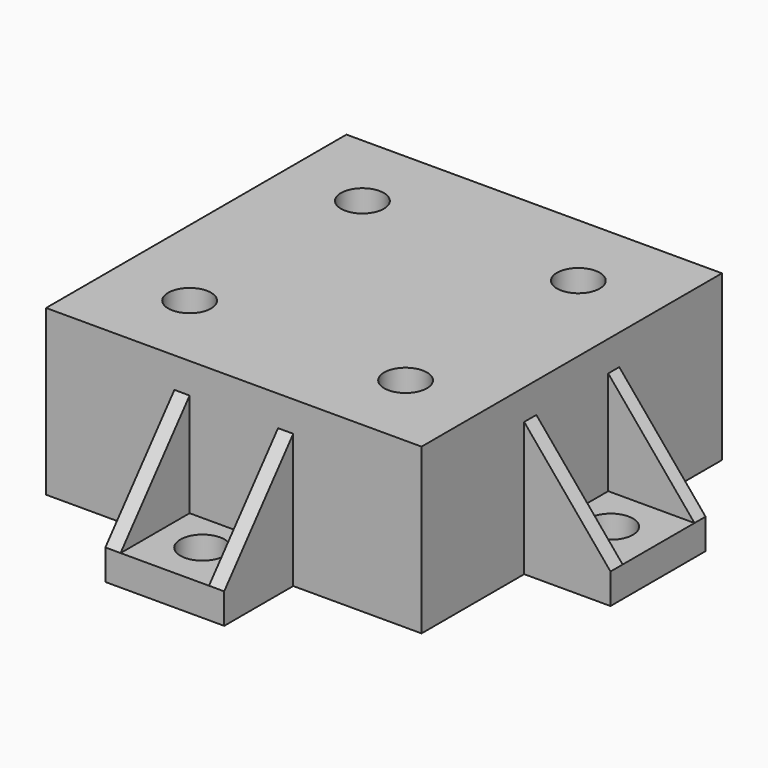
from build123d import *

# Parameters (mm, degrees)
F0_R      = 1.6
F1_DEPTH  = 2.2
F2_W      = 1.1
F2_H      = 6.2444173613
F2_W_2    = 6.2444173613
F2_H_2    = 1
F2_H_3    = 1.1
F3_DEPTH  = 7.5
F5_DEPTH  = 24.1311635683
F7_DEPTH  = 24.1311635683
F9_DEPTH  = 24.1311635683
F11_DEPTH = 24.1311635683
F12_R     = 1.55
F13_DEPTH = 2.2


with BuildPart() as f1:
    # F0 (on Top) → F1 (new body)
    with BuildSketch(Plane.XY):
        with BuildLine():
            ThreePointArc((-4.3, 13.585746207), (0, 14.25), (4.3, 13.585746207))
            Line((4.3, 13.585746207), (4.3, 19.8301635683))
            Line((4.3, 19.8301635683), (0, 19.8301635683))
            Line((0, 19.8301635683), (-4.3, 19.8301635683))
            Line((-4.3, 19.8301635683), (-4.3, 13.585746207))
        make_face()
        with Locations((0, 16.4150817841)):
            Circle(F0_R, mode=Mode.SUBTRACT)
        with BuildLine():
            Line((-7.4573291436, 12.1429297142), (-4.642117831, 12.1429297142))
            ThreePointArc((-4.642117831, 12.1429297142), (-4.4714979846, 12.2067893311), (-4.3, 12.2682517092))
            Line((-4.3, 12.2682517092), (-4.3, 13.585746207))
            ThreePointArc((-4.3, 13.585746207), (-5.9227634602, 12.9608399803), (-7.4573291436, 12.1429297142))
        make_face()
        with BuildLine():
            ThreePointArc((-4.3, 12.2682517092), (0, 13), (4.3, 12.2682517092))
            Line((4.3, 12.2682517092), (4.3, 13.585746207))
            ThreePointArc((4.3, 13.585746207), (0, 14.25), (-4.3, 13.585746207))
            Line((-4.3, 13.585746207), (-4.3, 12.2682517092))
        make_face()
        with BuildLine():
            ThreePointArc((4.3, 12.2682517092), (4.4714979846, 12.2067893311), (4.642117831, 12.1429297142))
            Line((4.642117831, 12.1429297142), (7.4573291436, 12.1429297142))
            ThreePointArc((7.4573291436, 12.1429297142), (5.9227634602, 12.9608399803), (4.3, 13.585746207))
            Line((4.3, 13.585746207), (4.3, 12.2682517092))
        make_face()
        with BuildLine():
            ThreePointArc((12.2682517092, 4.3), (12.8157573366, 2.1809089596), (13, 0))
            ThreePointArc((13, 0), (12.8157573366, -2.1809089596), (12.2682517092, -4.3))
            Line((12.2682517092, -4.3), (13.585746207, -4.3))
            ThreePointArc((13.585746207, -4.3), (14.0829574921, -2.1755018445), (14.25, 0))
            ThreePointArc((14.25, 0), (14.0829574921, 2.1755018445), (13.585746207, 4.3))
            Line((13.585746207, 4.3), (12.2682517092, 4.3))
        make_face()
        with BuildLine():
            Line((19.8301635683, 4.3), (13.585746207, 4.3))
            ThreePointArc((13.585746207, 4.3), (14.0829574921, 2.1755018445), (14.25, 0))
            ThreePointArc((14.25, 0), (14.0829574921, -2.1755018445), (13.585746207, -4.3))
            Line((13.585746207, -4.3), (19.8301635683, -4.3))
            Line((19.8301635683, -4.3), (19.8301635683, 0))
            Line((19.8301635683, 0), (19.8301635683, 4.3))
        make_face()
        with Locations((16.4150817841, 0)):
            Circle(F0_R, mode=Mode.SUBTRACT)
        with BuildLine():
            Line((13.585746207, -4.3), (12.2682517092, -4.3))
            ThreePointArc((12.2682517092, -4.3), (12.2067893311, -4.4714979846), (12.1429297142, -4.642117831))
            Line((12.1429297142, -4.642117831), (12.1429297142, -7.4573291436))
            ThreePointArc((12.1429297142, -7.4573291436), (12.9608399803, -5.9227634602), (13.585746207, -4.3))
        make_face()
        with BuildLine():
            Line((4.3, -13.585746207), (4.3, -12.2682517092))
            ThreePointArc((4.3, -12.2682517092), (0, -13), (-4.3, -12.2682517092))
            Line((-4.3, -12.2682517092), (-4.3, -13.585746207))
            ThreePointArc((-4.3, -13.585746207), (0, -14.25), (4.3, -13.585746207))
        make_face()
        with BuildLine():
            ThreePointArc((-4.3, -12.2682517092), (-4.4714979846, -12.2067893311), (-4.642117831, -12.1429297142))
            Line((-4.642117831, -12.1429297142), (-7.4573291436, -12.1429297142))
            ThreePointArc((-7.4573291436, -12.1429297142), (-5.9227634602, -12.9608399803), (-4.3, -13.585746207))
            Line((-4.3, -13.585746207), (-4.3, -12.2682517092))
        make_face()
        with BuildLine():
            ThreePointArc((-12.2682517092, -4.3), (-13, 0), (-12.2682517092, 4.3))
            Line((-12.2682517092, 4.3), (-13.585746207, 4.3))
            ThreePointArc((-13.585746207, 4.3), (-14.25, 0), (-13.585746207, -4.3))
            Line((-13.585746207, -4.3), (-12.2682517092, -4.3))
        make_face()
        with BuildLine():
            ThreePointArc((-13.585746207, -4.3), (-14.25, 0), (-13.585746207, 4.3))
            Line((-13.585746207, 4.3), (-19.8301635683, 4.3))
            Line((-19.8301635683, 4.3), (-19.8301635683, 0))
            Line((-19.8301635683, 0), (-19.8301635683, -4.3))
            Line((-19.8301635683, -4.3), (-13.585746207, -4.3))
        make_face()
        with Locations((-16.4150817841, 0)):
            Circle(F0_R, mode=Mode.SUBTRACT)
        with BuildLine():
            Line((4.3, -19.8301635683), (4.3, -13.585746207))
            ThreePointArc((4.3, -13.585746207), (0, -14.25), (-4.3, -13.585746207))
            Line((-4.3, -13.585746207), (-4.3, -19.8301635683))
            Line((-4.3, -19.8301635683), (0, -19.8301635683))
            Line((0, -19.8301635683), (4.3, -19.8301635683))
        make_face()
        with Locations((0, -16.4150817841)):
            Circle(F0_R, mode=Mode.SUBTRACT)
        with BuildLine():
            ThreePointArc((-12.1429297142, 7.4573291436), (-10.0762716319, 10.0762716319), (-7.4573291436, 12.1429297142))
            Line((-7.4573291436, 12.1429297142), (-12.1429297142, 12.1429297142))
            Line((-12.1429297142, 12.1429297142), (-12.1429297142, 7.4573291436))
        make_face()
        with BuildLine():
            ThreePointArc((-4.3, -13.585746207), (-5.9227634602, -12.9608399803), (-7.4573291436, -12.1429297142))
            Line((-7.4573291436, -12.1429297142), (-12.1429297142, -12.1429297142))
            Line((-12.1429297142, -12.1429297142), (-12.1429297142, -7.4573291436))
            ThreePointArc((-12.1429297142, -7.4573291436), (-12.9608399803, -5.9227634602), (-13.585746207, -4.3))
            Line((-13.585746207, -4.3), (-13.585746207, -13.585746207))
            Line((-13.585746207, -13.585746207), (-4.3, -13.585746207))
        make_face()
        with BuildLine():
            Line((-12.1429297142, -12.1429297142), (-7.4573291436, -12.1429297142))
            ThreePointArc((-7.4573291436, -12.1429297142), (-10.0762716319, -10.0762716319), (-12.1429297142, -7.4573291436))
            Line((-12.1429297142, -7.4573291436), (-12.1429297142, -12.1429297142))
        make_face()
        with BuildLine():
            Line((-12.1429297142, -7.4573291436), (-12.1429297142, -4.642117831))
            ThreePointArc((-12.1429297142, -4.642117831), (-12.2067893311, -4.4714979846), (-12.2682517092, -4.3))
            Line((-12.2682517092, -4.3), (-13.585746207, -4.3))
            ThreePointArc((-13.585746207, -4.3), (-12.9608399803, -5.9227634602), (-12.1429297142, -7.4573291436))
        make_face()
        with BuildLine():
            Line((-12.1429297142, 12.1429297142), (-7.4573291436, 12.1429297142))
            ThreePointArc((-7.4573291436, 12.1429297142), (-5.9227634602, 12.9608399803), (-4.3, 13.585746207))
            Line((-4.3, 13.585746207), (-13.585746207, 13.585746207))
            Line((-13.585746207, 13.585746207), (-13.585746207, 4.3))
            ThreePointArc((-13.585746207, 4.3), (-12.9608399803, 5.9227634602), (-12.1429297142, 7.4573291436))
            Line((-12.1429297142, 7.4573291436), (-12.1429297142, 12.1429297142))
        make_face()
        with BuildLine():
            ThreePointArc((12.1429297142, 7.4573291436), (12.9608399803, 5.9227634602), (13.585746207, 4.3))
            Line((13.585746207, 4.3), (13.585746207, 13.585746207))
            Line((13.585746207, 13.585746207), (4.3, 13.585746207))
            ThreePointArc((4.3, 13.585746207), (5.9227634602, 12.9608399803), (7.4573291436, 12.1429297142))
            Line((7.4573291436, 12.1429297142), (12.1429297142, 12.1429297142))
            Line((12.1429297142, 12.1429297142), (12.1429297142, 7.4573291436))
        make_face()
        with BuildLine():
            ThreePointArc((7.4573291436, 12.1429297142), (10.0762716319, 10.0762716319), (12.1429297142, 7.4573291436))
            Line((12.1429297142, 7.4573291436), (12.1429297142, 12.1429297142))
            Line((12.1429297142, 12.1429297142), (7.4573291436, 12.1429297142))
        make_face()
        with BuildLine():
            ThreePointArc((4.642117831, 12.1429297142), (9.1923881554, 9.1923881554), (12.1429297142, 4.642117831))
            Line((12.1429297142, 4.642117831), (12.1429297142, 7.4573291436))
            ThreePointArc((12.1429297142, 7.4573291436), (10.0762716319, 10.0762716319), (7.4573291436, 12.1429297142))
            Line((7.4573291436, 12.1429297142), (4.642117831, 12.1429297142))
        make_face()
        with BuildLine():
            ThreePointArc((12.1429297142, 4.642117831), (12.2067893311, 4.4714979846), (12.2682517092, 4.3))
            Line((12.2682517092, 4.3), (13.585746207, 4.3))
            ThreePointArc((13.585746207, 4.3), (12.9608399803, 5.9227634602), (12.1429297142, 7.4573291436))
            Line((12.1429297142, 7.4573291436), (12.1429297142, 4.642117831))
        make_face()
        with BuildLine():
            ThreePointArc((-12.1429297142, 4.642117831), (-9.1923881554, 9.1923881554), (-4.642117831, 12.1429297142))
            Line((-4.642117831, 12.1429297142), (-7.4573291436, 12.1429297142))
            ThreePointArc((-7.4573291436, 12.1429297142), (-10.0762716319, 10.0762716319), (-12.1429297142, 7.4573291436))
            Line((-12.1429297142, 7.4573291436), (-12.1429297142, 4.642117831))
        make_face()
        with BuildLine():
            ThreePointArc((-12.2682517092, 4.3), (-12.2067893311, 4.4714979846), (-12.1429297142, 4.642117831))
            Line((-12.1429297142, 4.642117831), (-12.1429297142, 7.4573291436))
            ThreePointArc((-12.1429297142, 7.4573291436), (-12.9608399803, 5.9227634602), (-13.585746207, 4.3))
            Line((-13.585746207, 4.3), (-12.2682517092, 4.3))
        make_face()
        with BuildLine():
            Line((-7.4573291436, -12.1429297142), (-4.642117831, -12.1429297142))
            ThreePointArc((-4.642117831, -12.1429297142), (-9.1923881554, -9.1923881554), (-12.1429297142, -4.642117831))
            Line((-12.1429297142, -4.642117831), (-12.1429297142, -7.4573291436))
            ThreePointArc((-12.1429297142, -7.4573291436), (-10.0762716319, -10.0762716319), (-7.4573291436, -12.1429297142))
        make_face()
        with BuildLine():
            Line((12.1429297142, -7.4573291436), (12.1429297142, -4.642117831))
            ThreePointArc((12.1429297142, -4.642117831), (9.1923881554, -9.1923881554), (4.642117831, -12.1429297142))
            Line((4.642117831, -12.1429297142), (7.4573291436, -12.1429297142))
            ThreePointArc((7.4573291436, -12.1429297142), (10.0762716319, -10.0762716319), (12.1429297142, -7.4573291436))
        make_face()
        with BuildLine():
            Line((12.1429297142, -12.1429297142), (12.1429297142, -7.4573291436))
            ThreePointArc((12.1429297142, -7.4573291436), (10.0762716319, -10.0762716319), (7.4573291436, -12.1429297142))
            Line((7.4573291436, -12.1429297142), (12.1429297142, -12.1429297142))
        make_face()
        with BuildLine():
            Line((13.585746207, -13.585746207), (13.585746207, -4.3))
            ThreePointArc((13.585746207, -4.3), (12.9608399803, -5.9227634602), (12.1429297142, -7.4573291436))
            Line((12.1429297142, -7.4573291436), (12.1429297142, -12.1429297142))
            Line((12.1429297142, -12.1429297142), (7.4573291436, -12.1429297142))
            ThreePointArc((7.4573291436, -12.1429297142), (5.9227634602, -12.9608399803), (4.3, -13.585746207))
            Line((4.3, -13.585746207), (13.585746207, -13.585746207))
        make_face()
        with BuildLine():
            Line((7.4573291436, -12.1429297142), (4.642117831, -12.1429297142))
            ThreePointArc((4.642117831, -12.1429297142), (4.4714979846, -12.2067893311), (4.3, -12.2682517092))
            Line((4.3, -12.2682517092), (4.3, -13.585746207))
            ThreePointArc((4.3, -13.585746207), (5.9227634602, -12.9608399803), (7.4573291436, -12.1429297142))
        make_face()
    extrude(amount=F1_DEPTH)

    # F2 (on face) → F3 (join)
    with BuildSketch(Plane.XY.offset(2.2)):
        with Locations((3.75, 16.7079548876)):
            Rectangle(F2_W, F2_H)
        Polygon((-3.2, 13.585746207), (-4.3, 13.585746207), (-13.585746207, 13.585746207), (-13.585746207, 4.3), (-13.585746207, 3.2), (-13.585746207, -3.2), (-13.585746207, -4.3), (-13.585746207, -13.585746207), (-4.3, -13.585746207), (-3.2, -13.585746207), (3.2, -13.585746207), (4.3, -13.585746207), (13.585746207, -13.585746207), (13.585746207, -4.3), (13.585746207, -3.2), (13.585746207, 3.3), (13.585746207, 4.3), (13.585746207, 13.585746207), (4.3, 13.585746207), (3.2, 13.585746207), align=None)
        with BuildLine():
            Line((-12.085746207, 4.7890227209), (-12.085746207, 12.085746207))
            Line((-12.085746207, 12.085746207), (-4.7890227209, 12.085746207))
            ThreePointArc((-4.7890227209, 12.085746207), (0, 13), (4.7890227209, 12.085746207))
            Line((4.7890227209, 12.085746207), (12.085746207, 12.085746207))
            Line((12.085746207, 12.085746207), (12.085746207, 4.7890227209))
            ThreePointArc((12.085746207, 4.7890227209), (12.7693911501, 2.4377550441), (13, 0))
            ThreePointArc((13, 0), (12.7693911501, -2.437755044), (12.085746207, -4.7890227209))
            Line((12.085746207, -4.7890227209), (12.085746207, -12.085746207))
            Line((12.085746207, -12.085746207), (4.7890227209, -12.085746207))
            ThreePointArc((4.7890227209, -12.085746207), (0, -13), (-4.7890227209, -12.085746207))
            Line((-4.7890227209, -12.085746207), (-12.085746207, -12.085746207))
            Line((-12.085746207, -12.085746207), (-12.085746207, -4.7890227209))
            ThreePointArc((-12.085746207, -4.7890227209), (-13, 0), (-12.085746207, 4.7890227209))
        make_face(mode=Mode.SUBTRACT)
        with Locations((-3.75, 16.7079548876)):
            Rectangle(F2_W, F2_H)
        with Locations((16.7079548876, 3.8)):
            Rectangle(F2_W_2, F2_H_2)
        with Locations((16.7079548876, -3.75)):
            Rectangle(F2_W_2, F2_H_3)
        with Locations((-16.7079548876, 3.75)):
            Rectangle(F2_W_2, F2_H_3)
        with Locations((-16.7079548876, -3.75)):
            Rectangle(F2_W_2, F2_H_3)
        with Locations((-3.75, -16.7079548876)):
            Rectangle(F2_W, F2_H)
        with Locations((3.75, -16.7079548876)):
            Rectangle(F2_W, F2_H)
    extrude(amount=F3_DEPTH)

    # F4 (on face) → F5 (cut, through all)
    with BuildSketch(Plane.XZ.offset(4.3)):
        Polygon((-19.8301635683, 9.7), (-19.8301635683, 2.2), (-13.585746207, 9.7), align=None)
    extrude(amount=-F5_DEPTH, mode=Mode.SUBTRACT)

    # F6 (on face) → F7 (cut, through all)
    with BuildSketch(Plane.XZ.offset(4.3)):
        Polygon((13.585746207, 9.7), (19.8301635683, 2.2), (19.8301635683, 9.7), align=None)
    extrude(amount=-F7_DEPTH, mode=Mode.SUBTRACT)

    # F8 (on face) → F9 (cut, through all)
    with BuildSketch(Plane(origin=(-4.3, 0, 0), x_dir=(0, -1, 0), z_dir=(-1, 0, 0))):
        Polygon((13.585746207, 9.7), (19.8301635683, 2.2), (19.8301635683, 9.7), align=None)
    extrude(amount=-F9_DEPTH, mode=Mode.SUBTRACT)

    # F10 (on face) → F11 (cut, through all)
    with BuildSketch(Plane(origin=(-4.3, 0, 0), x_dir=(0, -1, 0), z_dir=(-1, 0, 0))):
        Polygon((-19.8301635683, 9.7), (-19.8301635683, 2.2), (-13.585746207, 9.7), align=None)
    extrude(amount=-F11_DEPTH, mode=Mode.SUBTRACT)

    # F12 (on face) → F13 (join)
    with BuildSketch(Plane.XY.offset(9.7)):
        Polygon((-4.3, 13.585746207), (-13.585746207, 13.585746207), (-13.585746207, 4.3), (-13.585746207, 3.2), (-13.585746207, -3.2), (-13.585746207, -4.3), (-13.585746207, -13.585746207), (-4.3, -13.585746207), (-3.2, -13.585746207), (3.2, -13.585746207), (4.3, -13.585746207), (13.585746207, -13.585746207), (13.585746207, -4.3), (13.585746207, -3.2), (13.585746207, 3.3), (13.585746207, 4.3), (13.585746207, 13.585746207), (4.3, 13.585746207), (3.2, 13.585746207), (-3.2, 13.585746207), align=None)
        with BuildLine():
            Line((12.085746207, -4.7890227209), (12.085746207, -12.085746207))
            Line((12.085746207, -12.085746207), (4.7890227209, -12.085746207))
            ThreePointArc((4.7890227209, -12.085746207), (0, -13), (-4.7890227209, -12.085746207))
            Line((-4.7890227209, -12.085746207), (-12.085746207, -12.085746207))
            Line((-12.085746207, -12.085746207), (-12.085746207, -4.7890227209))
            ThreePointArc((-12.085746207, -4.7890227209), (-13, 0), (-12.085746207, 4.7890227209))
            Line((-12.085746207, 4.7890227209), (-12.085746207, 12.085746207))
            Line((-12.085746207, 12.085746207), (-4.7890227209, 12.085746207))
            ThreePointArc((-4.7890227209, 12.085746207), (0, 13), (4.7890227209, 12.085746207))
            Line((4.7890227209, 12.085746207), (12.085746207, 12.085746207))
            Line((12.085746207, 12.085746207), (12.085746207, 4.7890227209))
            ThreePointArc((12.085746207, 4.7890227209), (13, 0), (12.085746207, -4.7890227209))
        make_face(mode=Mode.SUBTRACT)
        with BuildLine():
            Line((4.7890227209, -12.085746207), (12.085746207, -12.085746207))
            Line((12.085746207, -12.085746207), (12.085746207, -4.7890227209))
            ThreePointArc((12.085746207, -4.7890227209), (13, 0), (12.085746207, 4.7890227209))
            Line((12.085746207, 4.7890227209), (12.085746207, 12.085746207))
            Line((12.085746207, 12.085746207), (4.7890227209, 12.085746207))
            ThreePointArc((4.7890227209, 12.085746207), (0, 13), (-4.7890227209, 12.085746207))
            Line((-4.7890227209, 12.085746207), (-12.085746207, 12.085746207))
            Line((-12.085746207, 12.085746207), (-12.085746207, 4.7890227209))
            ThreePointArc((-12.085746207, 4.7890227209), (-13, 0), (-12.085746207, -4.7890227209))
            Line((-12.085746207, -4.7890227209), (-12.085746207, -12.085746207))
            Line((-12.085746207, -12.085746207), (-4.7890227209, -12.085746207))
            ThreePointArc((-4.7890227209, -12.085746207), (0, -13), (4.7890227209, -12.085746207))
        make_face()
        with Locations((-7.8135299321, -7.8135299321)):
            Circle(F12_R, mode=Mode.SUBTRACT)
        with Locations((7.8135299321, -7.8135299321)):
            Circle(F12_R, mode=Mode.SUBTRACT)
        with Locations((-7.8135299321, 7.8135299321)):
            Circle(F12_R, mode=Mode.SUBTRACT)
        with Locations((7.8135299321, 7.8135299321)):
            Circle(F12_R, mode=Mode.SUBTRACT)
    extrude(amount=F13_DEPTH)


solid = f1.part
